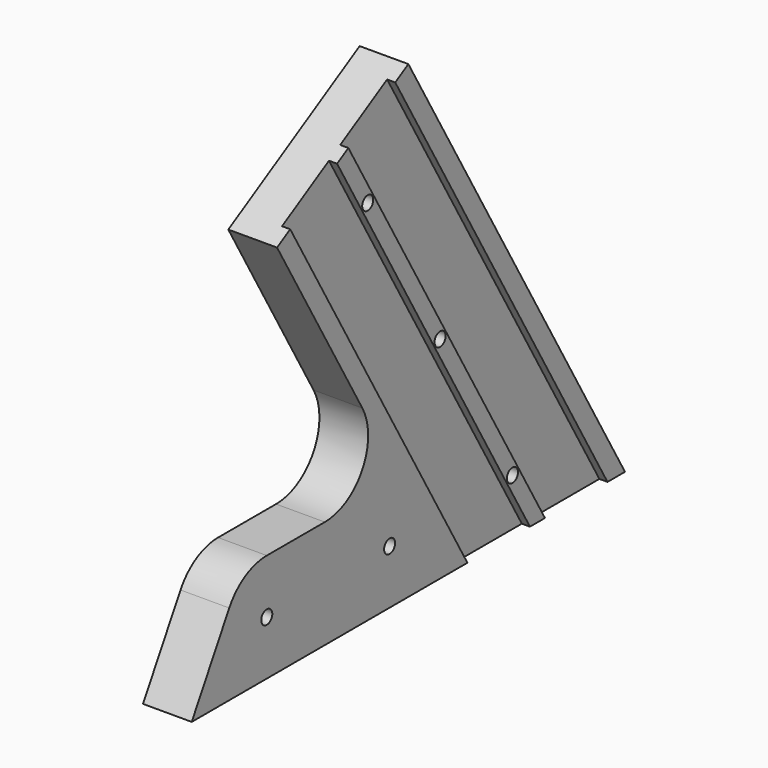
from build123d import *

# Parameters (mm, degrees)
PAD_DEPTH       = 18
SKETCH001_R     = 2.55
POCKET_DEPTH    = 18.001
SKETCH002_W     = 3
SKETCH002_H     = 25
POCKET002_DEPTH = 200.001


with BuildPart() as part:
    # Sketch → Pad (new body)
    with BuildSketch(Plane.YZ):
        with BuildLine():
            Line((0, 0), (200, 0))
            Line((200, 0), (100, 173.205081))
            Line((100, 173.205081), (39.378222, 138.205081))
            Line((39.378222, 138.205081), (78.756443, 70))
            ThreePointArc((61.435935, 40), (78.756443, 50), (78.756443, 70))
            Line((61.435935, 40), (34.641016, 40))
            ThreePointArc((34.641016, 40), (24.641016, 37.320508), (17.320508, 30))
            Line((17.320508, 30), (0, 0))
        make_face()
    extrude(amount=PAD_DEPTH)

    # Sketch001 (on Face10 of Pad) → Pocket (cut, through all)
    with BuildSketch(Plane.YZ.offset(18)):
        with Locations((81.236116, 135.705081)):
            Circle(SKETCH001_R)
        with Locations((114.637296, 77.85254)):
            Circle(SKETCH001_R)
        with Locations((148.038476, 20)):
            Circle(SKETCH001_R)
        with Locations((91.339746, 20)):
            Circle(SKETCH001_R)
        with Locations((34.641016, 20)):
            Circle(SKETCH001_R)
    extrude(amount=-POCKET_DEPTH, mode=Mode.SUBTRACT)

    # Sketch002 (on Face8 of Clone001) → Pocket002 (cut, through all)
    with BuildSketch(Plane(origin=(0, -50, 86.60254), x_dir=(1, 0, 0), z_dir=(0, -0.5, 0.866025))):
        with Locations((16.5, 153.705081)):
            Rectangle(SKETCH002_W, SKETCH002_H)
        with Locations((16.5, 122.705081)):
            Rectangle(SKETCH002_W, SKETCH002_H)
    extrude(amount=-POCKET002_DEPTH, mode=Mode.SUBTRACT)


solid = part.part
